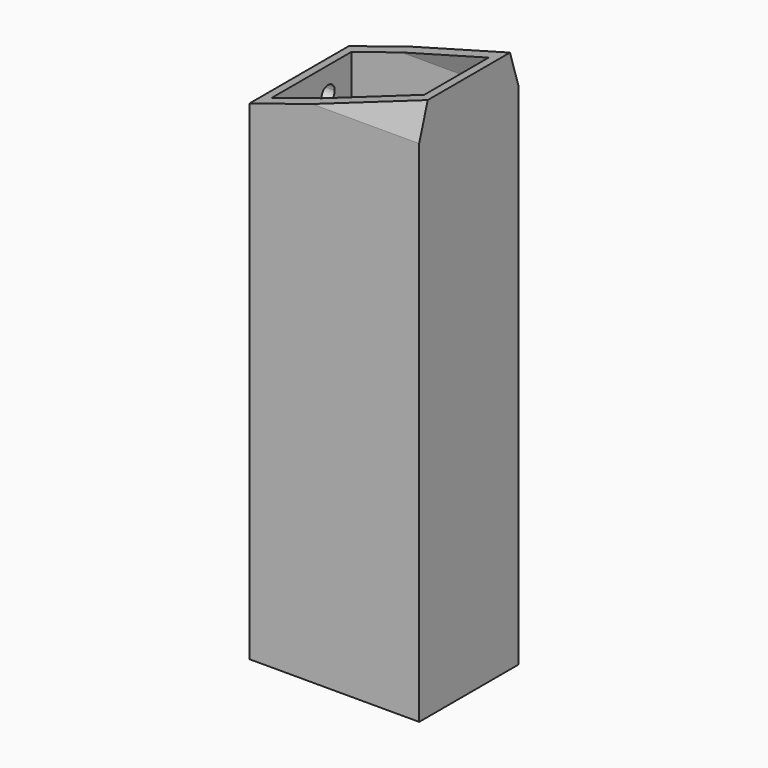
from build123d import *

# Parameters (mm, degrees)
F1_DEPTH = 3
F2_W     = 3
F2_H     = 3
F2_H_2   = 120
F3_DEPTH = 41
F5_DEPTH = 3
F7_DEPTH = 39.6


with BuildPart() as f1:
    # F0 (on Right) → F1 (new body)
    with BuildSketch(Plane.YZ):
        Polygon((-7, -20), (5, -20), (17, -20), (17, 100), (14, 109.5393920142), (-4, 109.5393920142), (-7, 100), align=None)
        with BuildLine():
            Line((10, 28), (10, 12))
            ThreePointArc((10, 12), (11.4142135624, 11.4142135624), (12, 10))
            ThreePointArc((12, 10), (11.4142135624, 8.5857864376), (10, 8))
            Line((10, 8), (10, 0))
            Line((10, 0), (5, 0))
            Line((5, 0), (2, 0))
            ThreePointArc((2, 0), (-1.4142135624, -1.4142135624), (0, 2))
            Line((0, 2), (0, 18))
            ThreePointArc((0, 18), (-2, 20), (0, 22))
            Line((0, 22), (0, 38))
            ThreePointArc((0, 38), (-2, 40), (0, 42))
            Line((0, 42), (0, 58))
            ThreePointArc((0, 58), (-2, 60), (0, 62))
            Line((0, 62), (0, 78))
            ThreePointArc((0, 78), (-2, 80), (0, 82))
            Line((0, 82), (0, 98))
            ThreePointArc((0, 98), (-1.4142135624, 101.4142135624), (2, 100))
            ThreePointArc((2, 100), (1.847759065, 99.2346331353), (1.4142135624, 98.5857864376))
            Line((1.4142135624, 98.5857864376), (8.5857864376, 91.4142135624))
            ThreePointArc((8.5857864376, 91.4142135624), (10.7653668647, 91.847759065), (12, 90))
            ThreePointArc((12, 90), (11.4142135624, 88.5857864376), (10, 88))
            Line((10, 88), (10, 72))
            ThreePointArc((10, 72), (11.4142135624, 71.4142135624), (12, 70))
            ThreePointArc((12, 70), (11.4142135624, 68.5857864376), (10, 68))
            Line((10, 68), (10, 52))
            ThreePointArc((10, 52), (11.4142135624, 51.4142135624), (12, 50))
            ThreePointArc((12, 50), (11.4142135624, 48.5857864376), (10, 48))
            Line((10, 48), (10, 32))
            ThreePointArc((10, 32), (11.4142135624, 31.4142135624), (12, 30))
            ThreePointArc((12, 30), (11.4142135624, 28.5857864376), (10, 28))
        make_face(mode=Mode.SUBTRACT)
        with BuildLine():
            ThreePointArc((8.5857864376, 8.5857864376), (8, 10), (8.5857864376, 11.4142135624))
            Line((8.5857864376, 11.4142135624), (1.4142135624, 18.5857864376))
            ThreePointArc((1.4142135624, 18.5857864376), (0.7653668647, 18.152240935), (0, 18))
            Line((0, 18), (0, 2))
            ThreePointArc((0, 2), (0.7653668647, 1.847759065), (1.4142135624, 1.4142135624))
            Line((1.4142135624, 1.4142135624), (8.5857864376, 8.5857864376))
        make_face()
        with BuildLine():
            ThreePointArc((10, 8), (9.2346331353, 8.152240935), (8.5857864376, 8.5857864376))
            Line((8.5857864376, 8.5857864376), (1.4142135624, 1.4142135624))
            ThreePointArc((1.4142135624, 1.4142135624), (1.847759065, 0.7653668647), (2, 0))
            Line((2, 0), (5, 0))
            Line((5, 0), (10, 0))
            Line((10, 0), (10, 8))
        make_face()
        with BuildLine():
            Line((1.4142135624, 18.5857864376), (8.5857864376, 11.4142135624))
            ThreePointArc((8.5857864376, 11.4142135624), (9.2346331353, 11.847759065), (10, 12))
            Line((10, 12), (10, 28))
            ThreePointArc((10, 28), (9.2346331353, 28.152240935), (8.5857864376, 28.5857864376))
            Line((8.5857864376, 28.5857864376), (1.4142135624, 21.4142135624))
            ThreePointArc((1.4142135624, 21.4142135624), (1.847759065, 20.7653668647), (2, 20))
            ThreePointArc((2, 20), (1.847759065, 19.2346331353), (1.4142135624, 18.5857864376))
        make_face()
        with BuildLine():
            Line((1.4142135624, 21.4142135624), (8.5857864376, 28.5857864376))
            ThreePointArc((8.5857864376, 28.5857864376), (8, 30), (8.5857864376, 31.4142135624))
            Line((8.5857864376, 31.4142135624), (1.4142135624, 38.5857864376))
            ThreePointArc((1.4142135624, 38.5857864376), (0.7653668647, 38.152240935), (0, 38))
            Line((0, 38), (0, 22))
            ThreePointArc((0, 22), (0.7653668647, 21.847759065), (1.4142135624, 21.4142135624))
        make_face()
        with BuildLine():
            Line((1.4142135624, 38.5857864376), (8.5857864376, 31.4142135624))
            ThreePointArc((8.5857864376, 31.4142135624), (9.2346331353, 31.847759065), (10, 32))
            Line((10, 32), (10, 48))
            ThreePointArc((10, 48), (9.2346331353, 48.152240935), (8.5857864376, 48.5857864376))
            Line((8.5857864376, 48.5857864376), (1.4142135624, 41.4142135624))
            ThreePointArc((1.4142135624, 41.4142135624), (1.847759065, 40.7653668647), (2, 40))
            ThreePointArc((2, 40), (1.847759065, 39.2346331353), (1.4142135624, 38.5857864376))
        make_face()
        with BuildLine():
            Line((0, 58), (0, 42))
            ThreePointArc((0, 42), (0.7653668647, 41.847759065), (1.4142135624, 41.4142135624))
            Line((1.4142135624, 41.4142135624), (8.5857864376, 48.5857864376))
            ThreePointArc((8.5857864376, 48.5857864376), (8, 50), (8.5857864376, 51.4142135624))
            Line((8.5857864376, 51.4142135624), (1.4142135624, 58.5857864376))
            ThreePointArc((1.4142135624, 58.5857864376), (0.7653668647, 58.152240935), (0, 58))
        make_face()
        with BuildLine():
            Line((1.4142135624, 58.5857864376), (8.5857864376, 51.4142135624))
            ThreePointArc((8.5857864376, 51.4142135624), (9.2346331353, 51.847759065), (10, 52))
            Line((10, 52), (10, 68))
            ThreePointArc((10, 68), (9.2346331353, 68.152240935), (8.5857864376, 68.5857864376))
            Line((8.5857864376, 68.5857864376), (1.4142135624, 61.4142135624))
            ThreePointArc((1.4142135624, 61.4142135624), (1.847759065, 60.7653668647), (2, 60))
            ThreePointArc((2, 60), (1.847759065, 59.2346331353), (1.4142135624, 58.5857864376))
        make_face()
        with BuildLine():
            Line((0, 78), (0, 62))
            ThreePointArc((0, 62), (0.7653668647, 61.847759065), (1.4142135624, 61.4142135624))
            Line((1.4142135624, 61.4142135624), (8.5857864376, 68.5857864376))
            ThreePointArc((8.5857864376, 68.5857864376), (8, 70), (8.5857864376, 71.4142135624))
            Line((8.5857864376, 71.4142135624), (1.4142135624, 78.5857864376))
            ThreePointArc((1.4142135624, 78.5857864376), (0.7653668647, 78.152240935), (0, 78))
        make_face()
        with BuildLine():
            ThreePointArc((2, 80), (1.847759065, 79.2346331353), (1.4142135624, 78.5857864376))
            Line((1.4142135624, 78.5857864376), (8.5857864376, 71.4142135624))
            ThreePointArc((8.5857864376, 71.4142135624), (9.2346331353, 71.847759065), (10, 72))
            Line((10, 72), (10, 88))
            ThreePointArc((10, 88), (9.2346331353, 88.152240935), (8.5857864376, 88.5857864376))
            Line((8.5857864376, 88.5857864376), (1.4142135624, 81.4142135624))
            ThreePointArc((1.4142135624, 81.4142135624), (1.847759065, 80.7653668647), (2, 80))
        make_face()
        with BuildLine():
            Line((0, 98), (0, 82))
            ThreePointArc((0, 82), (0.7653668647, 81.847759065), (1.4142135624, 81.4142135624))
            Line((1.4142135624, 81.4142135624), (8.5857864376, 88.5857864376))
            ThreePointArc((8.5857864376, 88.5857864376), (8, 90), (8.5857864376, 91.4142135624))
            Line((8.5857864376, 91.4142135624), (1.4142135624, 98.5857864376))
            ThreePointArc((1.4142135624, 98.5857864376), (0.7653668647, 98.152240935), (0, 98))
        make_face()
    extrude(amount=-F1_DEPTH)

    # F2 (on face) → F3 (join)
    with BuildSketch(Plane(origin=(-3, 0, 0), x_dir=(0, -1, 0), z_dir=(-1, 0, 0))):
        with Locations((-18.5, -21.5)):
            Rectangle(F2_W, F2_H)
        with Locations((-18.5, 40)):
            Rectangle(F2_W, F2_H_2)
        Polygon((7, 109.5393920142), (4, 109.5393920142), (7, 100), (7, -20), (7, -23), (10, -23), (10, 100), align=None)
        Polygon((-17, 100), (-14, 109.5393920142), (-17, 109.5393920142), (-20, 100), align=None)
    extrude(amount=-F3_DEPTH)

    # F4 (on face) → F5 (join)
    with BuildSketch(Plane.YZ.offset(38)):
        Polygon((17, 109.5393920142), (-7, 109.5393920142), (-10, 100), (-10, -23), (20, -23), (20, 100), align=None)
    extrude(amount=-F5_DEPTH)

    # F6 (on face) → F7 (cut)
    with BuildSketch(Plane(origin=(0, 20, 0), x_dir=(-1, 0, 0), z_dir=(0, 1, 0))):
        Polygon((3, 95.2), (3, 100), (3, 110), (-38, 110), (-38, 108.2), align=None)
    extrude(amount=-F7_DEPTH, mode=Mode.SUBTRACT)


solid = f1.part
